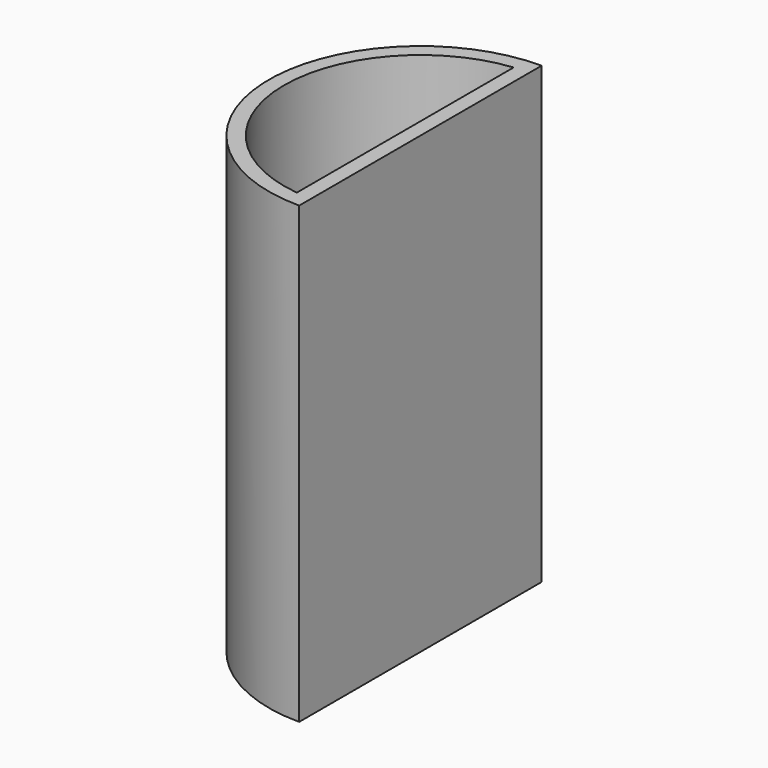
from build123d import *

# Parameters (mm, degrees)
F1_DEPTH = 75
F2_T     = -2.5


with BuildPart() as f1:
    # F0 (on Top) → F1 (new body)
    with BuildSketch(Plane.XY):
        with BuildLine():
            Line((0, -25), (0, 25))
            ThreePointArc((0, 25), (-25, 0), (0, -25))
        make_face()
    extrude(amount=F1_DEPTH)

    # F2
    f2_openings = [f1.faces().sort_by_distance(p)[0] for p in [
        (-10.61033, 0, 75),
    ]]
    offset(amount=F2_T, openings=f2_openings)


solid = f1.part
